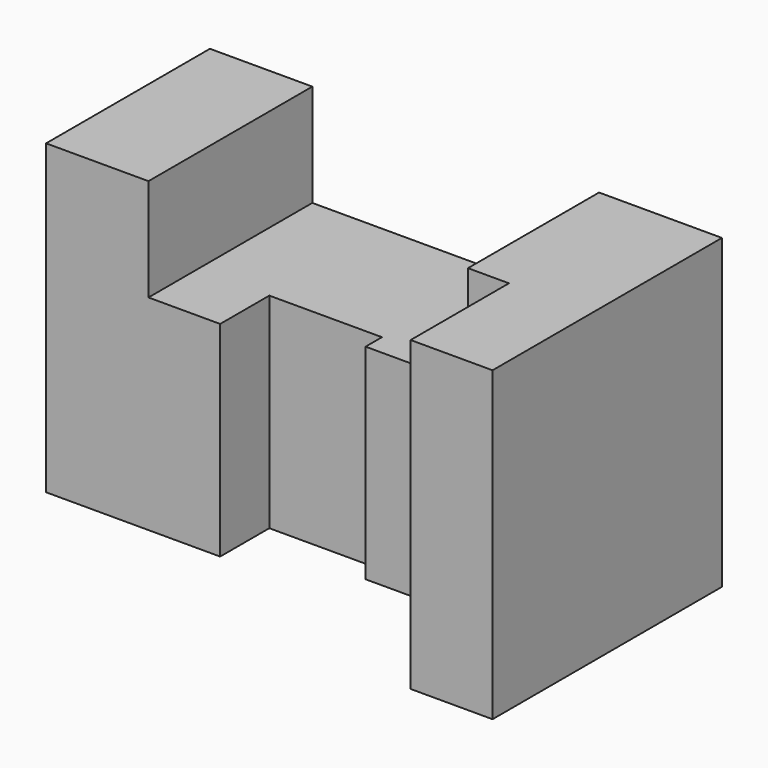
from build123d import *

# Parameters (mm, degrees)
F1_DEPTH      = 50
F2_START      = -15
F0_W          = 27.5
F0_H          = 50
F2_DEPTH      = 35
F3_START      = -10
F3_DEPTH      = 40
F0_W_2        = 20
F0_H_2        = 75
F4_DEPTH      = 50
F4_DEPTH_BACK = 20


with BuildPart() as f1:
    # F0 (on Front) → F1 (new body)
    with BuildSketch(Plane.XZ):
        Polygon((0, 75), (0, 0), (42.5, 0), (42.5, 50), (25, 50), (25, 75), align=None)
    extrude(amount=-F1_DEPTH)

    # F0 (on Front) → F2 (join)
    with BuildSketch(Plane.XZ.offset(F2_START)):
        with Locations((56.25, 25)):
            Rectangle(F0_W, F0_H)
    extrude(amount=-F2_DEPTH)

    # F0 (on Front) → F3 (join)
    with BuildSketch(Plane.XZ.offset(F3_START)):
        Polygon((70, 50), (70, 0), (105, 0), (105, 75), (95, 75), (95, 50), align=None)
    extrude(amount=-F3_DEPTH)

    # F0 (on Front) → F4 (join, two sides)
    with BuildSketch(Plane.XZ) as f4_sk:
        with Locations((115, 37.5)):
            Rectangle(F0_W_2, F0_H_2)
    extrude(amount=-F4_DEPTH)
    extrude(f4_sk.sketch, amount=F4_DEPTH_BACK)


solid = f1.part
